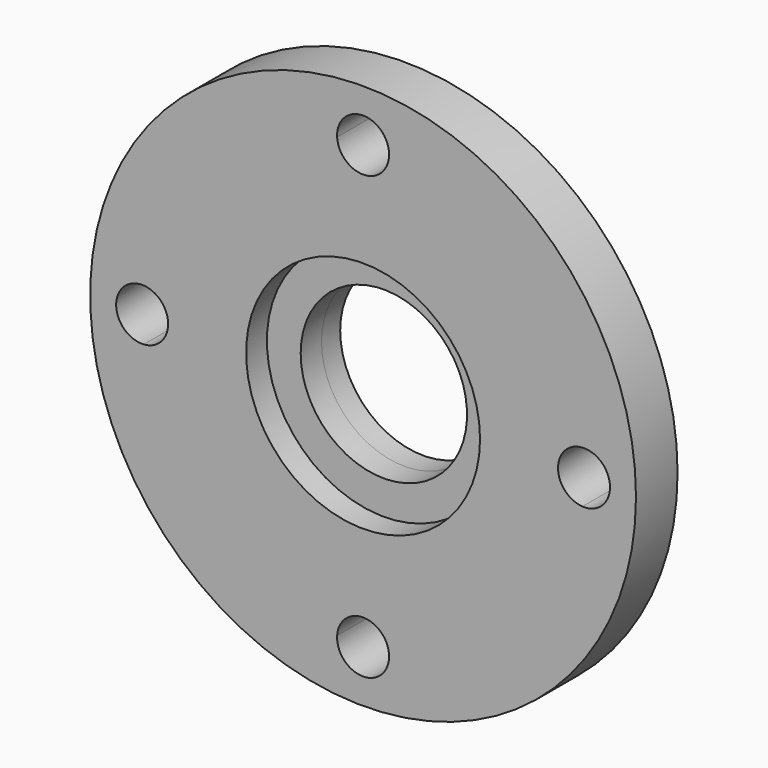
from build123d import *

# Parameters (mm, degrees)
F0_R     = 52.5
F1_DEPTH = 10
F2_R     = 22.5
F2_R_2   = 16
F3_DEPTH = 5
F4_R     = 22.5
F4_R_2   = 16
F5_DEPTH = 4.5
F6_R     = 16
F7_DEPTH = 25


with BuildPart() as f1:
    # F0 (on Front) → F1 (new body)
    with BuildSketch(Plane.XZ):
        Circle(F0_R)
        with BuildLine():
            ThreePointArc((4.9913419848, 42.2058823529), (30.0520382004, 30.0520382004), (42.2058823529, 4.9913419848))
            ThreePointArc((42.2058823529, 4.9913419848), (45.9299717029, 3.6380343755), (47.5, 0))
            ThreePointArc((47.5, 0), (45.9299717029, -3.6380343755), (42.2058823529, -4.9913419848))
            ThreePointArc((42.2058823529, -4.9913419848), (30.0520382004, -30.0520382004), (4.9913419848, -42.2058823529))
            ThreePointArc((4.9913419848, -42.2058823529), (4.9978350275, -42.3528774732), (5, -42.5))
            ThreePointArc((5, -42.5), (-0.1471225268, -47.4978350275), (-4.9913419848, -42.2058823529))
            ThreePointArc((-4.9913419848, -42.2058823529), (-30.0520382004, -30.0520382004), (-42.2058823529, -4.9913419848))
            ThreePointArc((-42.2058823529, -4.9913419848), (-47.5, 0), (-42.2058823529, 4.9913419848))
            ThreePointArc((-42.2058823529, 4.9913419848), (-30.0520382004, 30.0520382004), (-4.9913419848, 42.2058823529))
            ThreePointArc((-4.9913419848, 42.2058823529), (-0.1471225268, 47.4978350275), (5, 42.5))
            ThreePointArc((5, 42.5), (4.9978350275, 42.3528774732), (4.9913419848, 42.2058823529))
        make_face(mode=Mode.SUBTRACT)
        with BuildLine():
            ThreePointArc((42.2058823529, -4.9913419848), (37.5, 0), (42.2058823529, 4.9913419848))
            ThreePointArc((42.2058823529, 4.9913419848), (30.0520382004, 30.0520382004), (4.9913419848, 42.2058823529))
            ThreePointArc((4.9913419848, 42.2058823529), (0, 37.5), (-4.9913419848, 42.2058823529))
            ThreePointArc((-4.9913419848, 42.2058823529), (-30.0520382004, 30.0520382004), (-42.2058823529, 4.9913419848))
            ThreePointArc((-42.2058823529, 4.9913419848), (-38.8619656245, 3.4299717029), (-37.5, 0))
            ThreePointArc((-37.5, 0), (-38.8619656245, -3.4299717029), (-42.2058823529, -4.9913419848))
            ThreePointArc((-42.2058823529, -4.9913419848), (-30.0520382004, -30.0520382004), (-4.9913419848, -42.2058823529))
            ThreePointArc((-4.9913419848, -42.2058823529), (0, -37.5), (4.9913419848, -42.2058823529))
            ThreePointArc((4.9913419848, -42.2058823529), (30.0520382004, -30.0520382004), (42.2058823529, -4.9913419848))
        make_face()
    extrude(amount=F1_DEPTH)

    # F2 (on face) → F3 (cut)
    with BuildSketch(Plane.XZ.offset(10)):
        Circle(F2_R)
        Circle(F2_R_2, mode=Mode.SUBTRACT)
        Circle(F2_R_2)
    extrude(amount=-F3_DEPTH, mode=Mode.SUBTRACT)

    # F4 (on face) → F5 (join)
    with BuildSketch(Plane(origin=(0, 0, 0), x_dir=(-1, 0, 0), z_dir=(0, 1, 0))):
        Circle(F4_R)
        Circle(F4_R_2, mode=Mode.SUBTRACT)
    extrude(amount=F5_DEPTH)

    # F6 (on face) → F7 (cut)
    with BuildSketch(Plane(origin=(0, 0, 0), x_dir=(-1, 0, 0), z_dir=(0, 1, 0))):
        Circle(F6_R)
    extrude(amount=-F7_DEPTH, mode=Mode.SUBTRACT)


solid = f1.part
